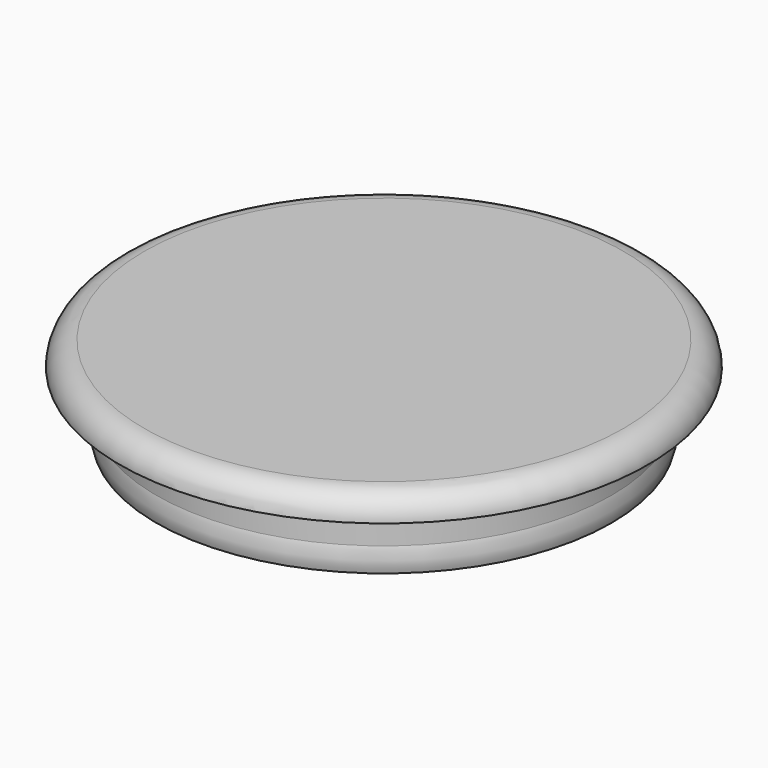
from build123d import *


with BuildPart() as f1:
    # F0 (on Front) → F1 (revolve)
    with BuildSketch(Plane.XZ):
        with BuildLine():
            Line((-28.2, -7.8), (-25.2, -7.8))
            Line((-25.2, -7.8), (-25.2, 0))
            Line((-25.2, 0), (0, 0))
            Line((0, 0), (0, 3))
            Line((0, 3), (-29.704983, 3))
            ThreePointArc((-29.704983, 3), (-31.826304, 2.12132), (-32.704983, 0))
            Line((-32.704983, 0), (-28.2, 0))
            Line((-28.2, 0), (-28.2, -4.8))
            ThreePointArc((-28.2, -4.8), (-28.45, -6.3), (-28.2, -7.8))
        make_face()
    revolve(axis=Axis((0, 0, 1.5), (0, 0, 1)))


solid = f1.part
